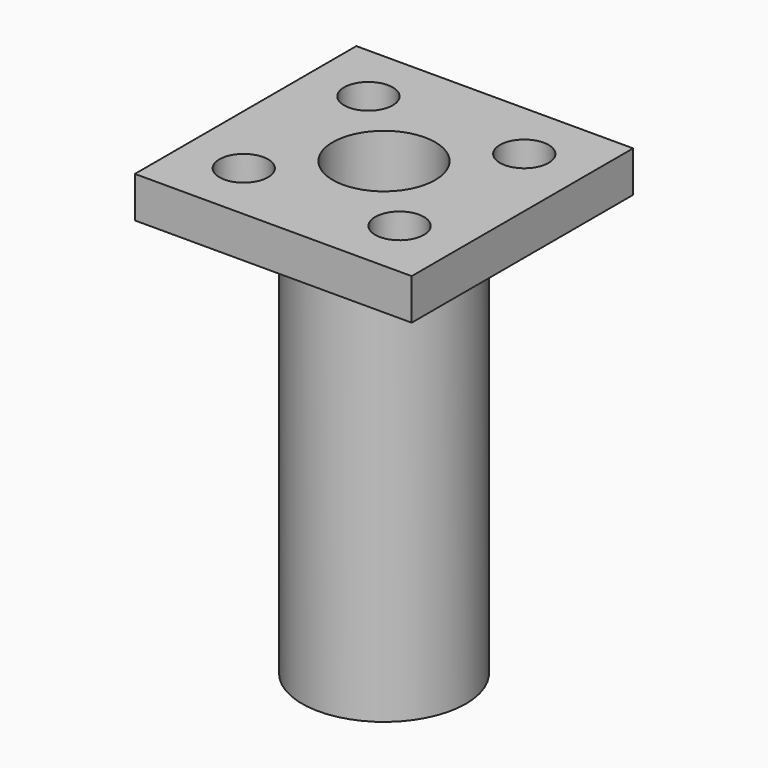
from build123d import *

# Parameters (mm, degrees)
F0_W     = 54
F0_H     = 54
F0_R     = 2.75
F1_DEPTH = 8
F2_R     = 16
F2_R_2   = 10
F3_DEPTH = 80
F4_R     = 4.75
F5_DEPTH = 5.4
F6_R     = 10
F7_DEPTH = 25


with BuildPart() as f1:
    # F0 (on Top) → F1 (new body)
    with BuildSketch(Plane.XY):
        Rectangle(F0_W, F0_H)
        with Locations((-15.202796, -15.202796)):
            Circle(F0_R, mode=Mode.SUBTRACT)
        with Locations((15.202796, -15.202796)):
            Circle(F0_R, mode=Mode.SUBTRACT)
        with Locations((-15.202796, 15.202796)):
            Circle(F0_R, mode=Mode.SUBTRACT)
        with Locations((15.202796, 15.202796)):
            Circle(F0_R, mode=Mode.SUBTRACT)
    extrude(amount=F1_DEPTH)

    # F2 (on face) → F3 (join)
    with BuildSketch(Plane(origin=(0, 0, 0), x_dir=(1, 0, 0), z_dir=(0, 0, -1))):
        Circle(F2_R)
        Circle(F2_R_2, mode=Mode.SUBTRACT)
    extrude(amount=F3_DEPTH)

    # F4 (on face) → F5 (cut)
    with BuildSketch(Plane.XY.offset(8)):
        with Locations((-15.202796, 15.202796)):
            Circle(F4_R)
        with Locations((15.202796, 15.202796)):
            Circle(F4_R)
        with Locations((15.202796, -15.202796)):
            Circle(F4_R)
        with Locations((-15.202796, -15.202796)):
            Circle(F4_R)
    extrude(amount=-F5_DEPTH, mode=Mode.SUBTRACT)

    # F6 (on face) → F7 (cut)
    with BuildSketch(Plane.XY.offset(8)):
        Circle(F6_R)
    extrude(amount=-F7_DEPTH, mode=Mode.SUBTRACT)


solid = f1.part
